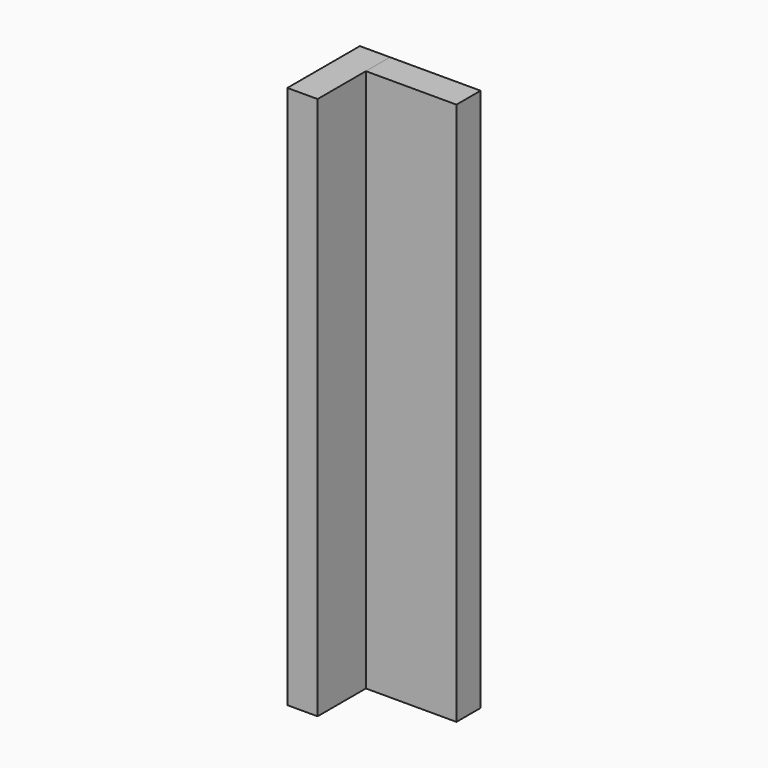
from build123d import *

# Parameters (mm, degrees)
F0_W     = 152.4
F0_H     = 50.8
F1_DEPTH = 914.4
F2_DEPTH = 914.4


with BuildPart() as f1:
    # F0 (on Top) → F1 (new body)
    with BuildSketch(Plane.XY):
        with Locations((76.2, -25.4)):
            Rectangle(F0_W, F0_H)
    extrude(amount=-F1_DEPTH)


with BuildPart() as f2:
    # F0 (on Top) → F2 (new body)
    with BuildSketch(Plane.XY):
        Polygon((0, -50.8), (0, 0), (-50.8, 0), (-50.8, -152.4), (0, -152.4), align=None)
    extrude(amount=-F2_DEPTH)


solid = Compound([f1.part, f2.part])
